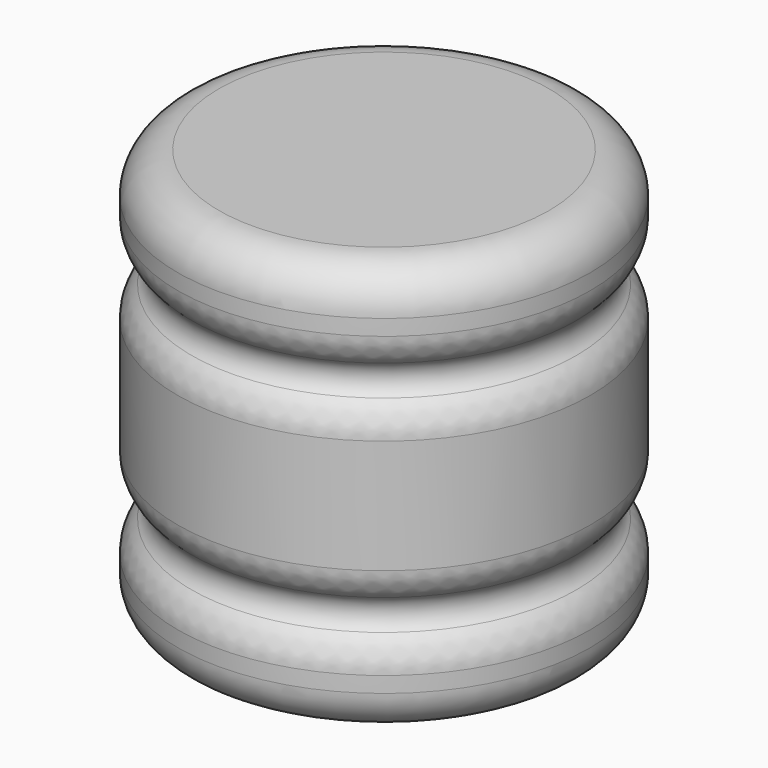
from build123d import *

# Parameters (mm, degrees)
F2_R = 5.08


with BuildPart() as f1:
    # F0 (on Front) → F1 (revolve)
    with BuildSketch(Plane.XZ):
        with BuildLine():
            Line((0, 50.8), (0, 0))
            Line((0, 0), (25.4, 0))
            Line((25.4, 0), (25.4, 10.16))
            ThreePointArc((25.4, 10.16), (22.86, 12.7), (25.4, 15.24))
            Line((25.4, 15.24), (25.4, 35.56))
            ThreePointArc((25.4, 35.56), (22.86, 38.1), (25.4, 40.64))
            Line((25.4, 40.64), (25.4, 50.8))
            Line((25.4, 50.8), (0, 50.8))
        make_face()
    revolve(axis=Axis((0, 0, 25.4), (0, 0, 1)))

    # F2
    f2_edges = [f1.edges().sort_by_distance(p)[0] for p in [
        (-25.4, 0, 50.8),
        (-25.4, 0, 0),
        (-25.4, 0, 10.16),
        (-25.4, 0, 15.24),
        (22.86, 0, 12.7),
        (-25.4, 0, 35.56),
        (-25.4, 0, 40.64),
        (22.86, 0, 38.1),
    ]]
    fillet(f2_edges, radius=F2_R)


solid = f1.part
